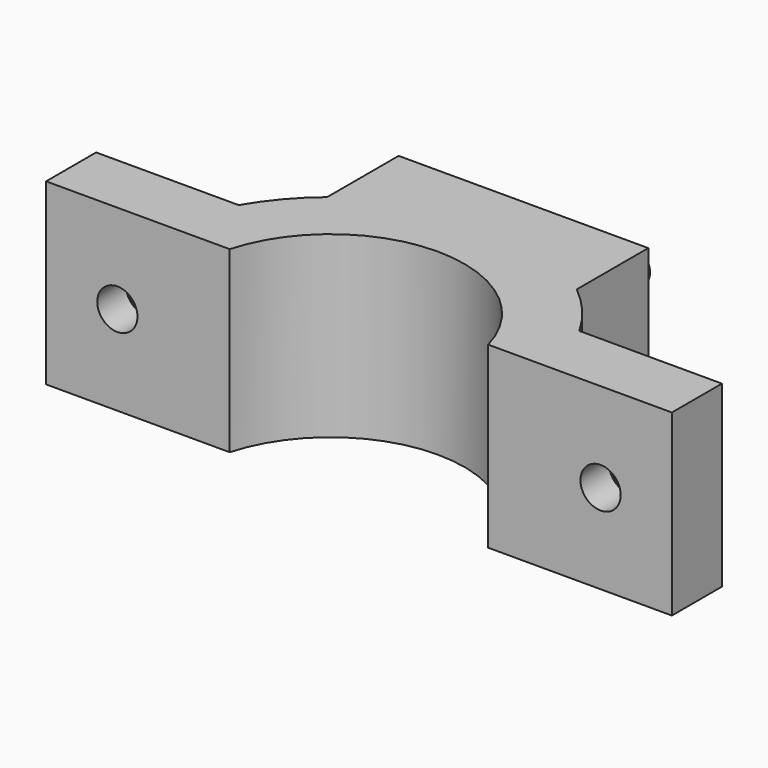
from build123d import *

# Parameters (mm, degrees)
F1_DEPTH = 10
F2_R     = 2.25
F3_DEPTH = 25
F4_R     = 5.25
F4_R_2   = 2.25
F5_DEPTH = 3
F6_W     = 27.92848
F6_H     = 10
F7_DEPTH = 20
F8_R     = 2
F9_DEPTH = 4


with BuildPart() as f1:
    # F0 (on Top) → F1 (new body, symmetric)
    with BuildSketch(Plane.XY):
        with BuildLine():
            Line((-35, 7), (-35, 0))
            Line((-35, 0), (-14.456832, 0))
            ThreePointArc((-14.456832, 0), (0, 11), (14.456832, 0))
            Line((14.456832, 0), (35, 0))
            Line((35, 0), (35, 7))
            Line((35, 7), (19.052559, 7))
            ThreePointArc((19.052559, 7), (0, 18), (-19.052559, 7))
            Line((-19.052559, 7), (-35, 7))
        make_face()
    extrude(amount=F1_DEPTH, both=True)

    # F2 (on face) → F3 (cut)
    with BuildSketch(Plane(origin=(0, 7, 0), x_dir=(-1, 0, 0), z_dir=(0, 1, 0))):
        with Locations((-27.026279, 0)):
            Circle(F2_R)
        with Locations((27.026279, 0)):
            Circle(F2_R)
    extrude(amount=-F3_DEPTH, mode=Mode.SUBTRACT)

    # F4 (on face) → F5 (cut)
    with BuildSketch(Plane(origin=(0, 7, 0), x_dir=(-1, 0, 0), z_dir=(0, 1, 0))):
        with Locations((27.026279, 0)):
            Circle(F4_R)
        with Locations((27.026279, 0)):
            Circle(F4_R_2, mode=Mode.SUBTRACT)
        with Locations((-27.026279, 0)):
            Circle(F4_R)
    extrude(amount=-F5_DEPTH, mode=Mode.SUBTRACT)

    # F6 (on face) → F7 (join)
    with BuildSketch(Plane.XY.offset(10)):
        with Locations((0, 18)):
            Rectangle(F6_W, F6_H)
    extrude(amount=-F7_DEPTH)

    # F8 (on face) → F9 (join)
    with BuildSketch(Plane(origin=(0, 23, 0), x_dir=(-1, 0, 0), z_dir=(0, 1, 0))):
        with Locations((8.96424, -5)):
            Circle(F8_R)
        with Locations((-8.96424, -5)):
            Circle(F8_R)
        with Locations((8.96424, 5)):
            Circle(F8_R)
        with Locations((-8.96424, 5)):
            Circle(F8_R)
    extrude(amount=F9_DEPTH)


solid = f1.part
